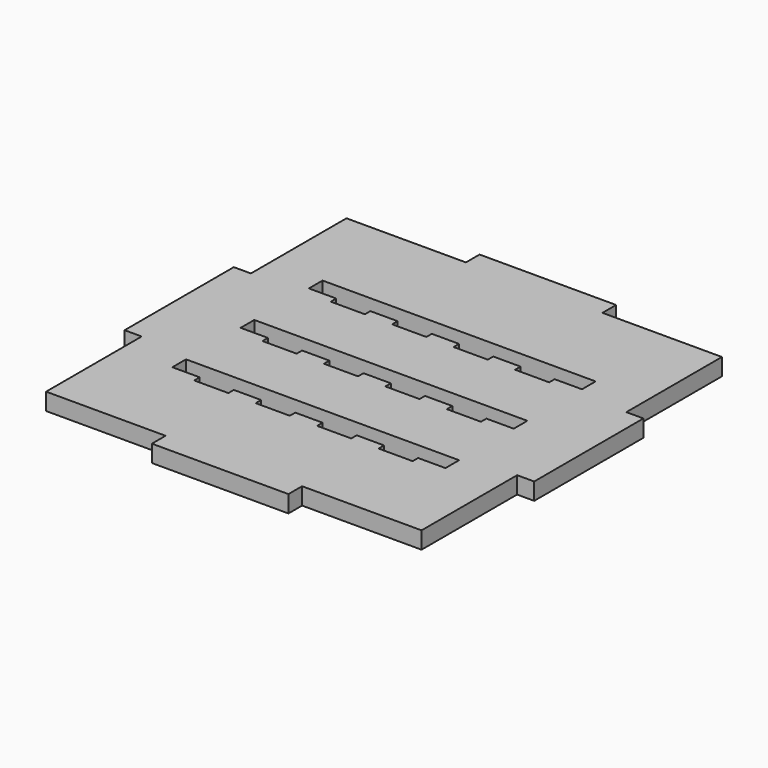
from build123d import *

# Parameters (mm, degrees)
F0_W     = 25.4
F0_H     = 3.175
F0_W_2   = 3.175
F0_H_2   = 25.4
F1_DEPTH = 3.175


with BuildPart() as f1:
    # F0 (on Top) → F1 (new body)
    with BuildSketch(Plane.XY):
        Polygon((12.7, -34.925), (34.925, -34.925), (34.925, -12.7), (34.925, 12.7), (34.925, 34.925), (12.7, 34.925), (-12.7, 34.925), (-34.925, 34.925), (-34.925, 12.7), (-34.925, -12.7), (-34.925, -34.925), (-12.7, -34.925), align=None)
        Polygon((-25.4, -17.4625), (-25.4, -14.2875), (25.4, -14.2875), (25.4, -17.4625), (20.32, -17.4625), (20.32, -18.7325), (13.97, -18.7325), (13.97, -17.4625), (8.89, -17.4625), (8.89, -18.7325), (2.54, -18.7325), (2.54, -17.4625), (-2.54, -17.4625), (-2.54, -18.7325), (-8.89, -18.7325), (-8.89, -17.4625), (-13.97, -17.4625), (-13.97, -18.7325), (-20.32, -18.7325), (-20.32, -17.4625), align=None, mode=Mode.SUBTRACT)
        Polygon((-25.4, -1.5875), (-25.4, 1.5875), (25.4, 1.5875), (25.4, -1.5875), (20.32, -1.5875), (20.32, -2.8575), (13.97, -2.8575), (13.97, -1.5875), (8.89, -1.5875), (8.89, -2.8575), (2.54, -2.8575), (2.54, -1.5875), (-2.54, -1.5875), (-2.54, -2.8575), (-8.89, -2.8575), (-8.89, -1.5875), (-13.97, -1.5875), (-13.97, -2.8575), (-20.32, -2.8575), (-20.32, -1.5875), align=None, mode=Mode.SUBTRACT)
        Polygon((-25.4, 14.2875), (-25.4, 17.4625), (25.4, 17.4625), (25.4, 14.2875), (20.32, 14.2875), (20.32, 13.0175), (13.97, 13.0175), (13.97, 14.2875), (8.89, 14.2875), (8.89, 13.0175), (2.54, 13.0175), (2.54, 14.2875), (-2.54, 14.2875), (-2.54, 13.0175), (-8.89, 13.0175), (-8.89, 14.2875), (-13.97, 14.2875), (-13.97, 13.0175), (-20.32, 13.0175), (-20.32, 14.2875), align=None, mode=Mode.SUBTRACT)
        with Locations((0, 36.5125)):
            Rectangle(F0_W, F0_H)
        with Locations((36.5125, 0)):
            Rectangle(F0_W_2, F0_H_2)
        with Locations((0, -36.5125)):
            Rectangle(F0_W, F0_H)
        with Locations((-36.5125, 0)):
            Rectangle(F0_W_2, F0_H_2)
    extrude(amount=F1_DEPTH)


solid = f1.part
